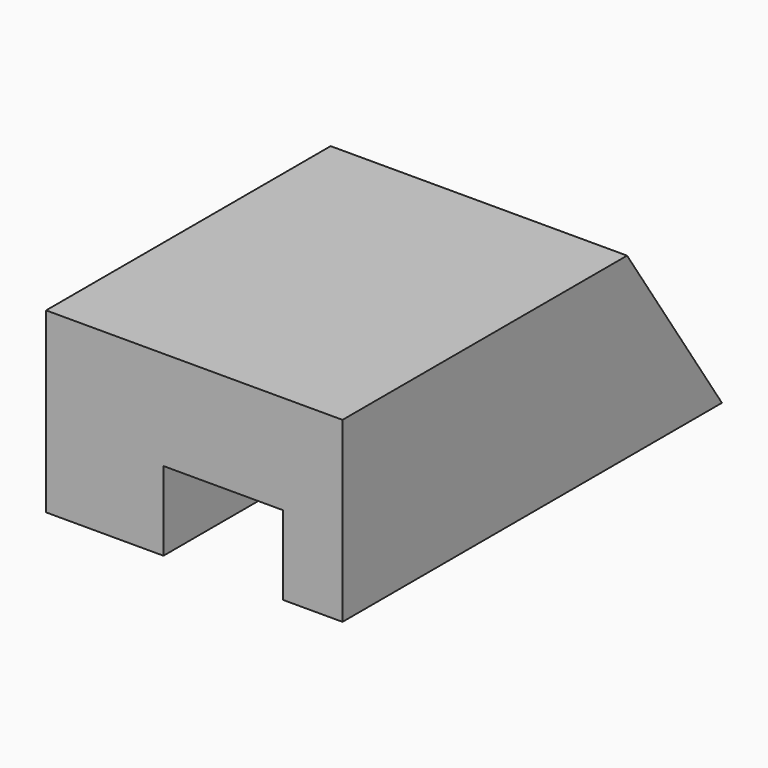
from build123d import *

# Parameters (mm, degrees)
F1_DEPTH      = 63.5
F2_W          = 25.654
F2_H          = 16.9195546743
F3_DEPTH      = 50.801
F3_DEPTH_BACK = 50.801


with BuildPart() as f1:
    # F0 (on Right) → F1 (new body)
    with BuildSketch(Plane.YZ):
        Polygon((25.4, 19.05), (-50.8, 19.05), (-50.8, -19.05), (50.8, -19.05), align=None)
    extrude(amount=F1_DEPTH)

    # F2 (on Front) → F3 (cut, two sides)
    with BuildSketch(Plane.XZ) as f3_sk:
        with Locations((37.973, -10.5902226629)):
            Rectangle(F2_W, F2_H)
    extrude(amount=-F3_DEPTH, mode=Mode.SUBTRACT)
    extrude(f3_sk.sketch, amount=F3_DEPTH_BACK, mode=Mode.SUBTRACT)


solid = f1.part
